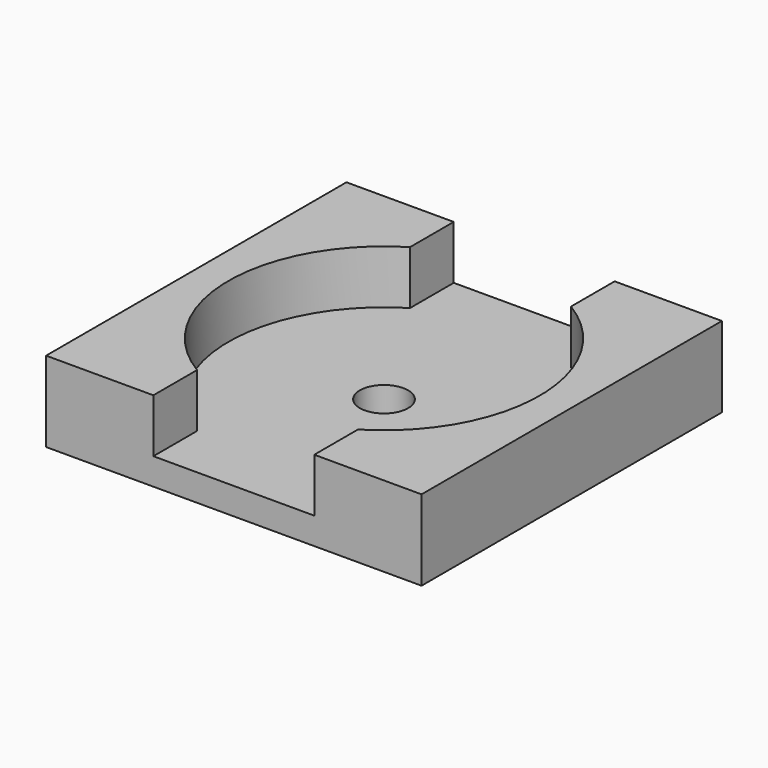
from build123d import *

# Parameters (mm, degrees)
SKETCH006_W     = 14
SKETCH006_H     = 14
PAD002_DEPTH    = 3
POCKET004_DEPTH = 2
SKETCH008_R     = 0.9
POCKET005_DEPTH = 1.001


with BuildPart() as part:
    # Sketch006 → Pad002 (new body)
    with BuildSketch(Plane.XY):
        Rectangle(SKETCH006_W, SKETCH006_H)
    extrude(amount=PAD002_DEPTH)

    # Sketch007 → Pocket004 (cut)
    with BuildSketch(Plane.XY.offset(3)):
        with BuildLine():
            Line((-3, 7), (-3, 4.963869))
            ThreePointArc((-3, 4.963869), (-5.8, 0), (-3, -4.963869))
            Line((-3, -7), (-3, -4.963869))
            Line((3, -7), (-3, -7))
            Line((3, -4.963869), (3, -7))
            ThreePointArc((3, -4.963869), (5.8, 0), (3, 4.963869))
            Line((3, 7), (3, 4.963869))
            Line((-3, 7), (3, 7))
        make_face()
    extrude(amount=-POCKET004_DEPTH, mode=Mode.SUBTRACT)

    # Sketch008 → Pocket005 (cut, through all)
    with BuildSketch(Plane.XY.offset(1)):
        Circle(SKETCH008_R)
    extrude(amount=-POCKET005_DEPTH, mode=Mode.SUBTRACT)


solid = part.part
